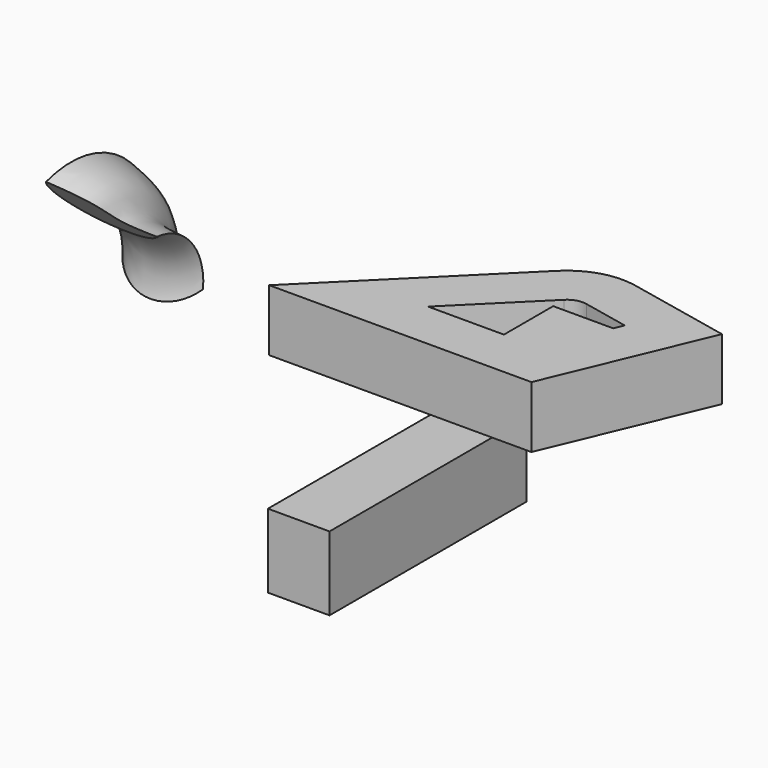
from build123d import *

# Parameters (mm, degrees)
F1_DEPTH      = 25
F2_W          = 18.6549739079
F2_H          = 25
F2_W_2        = 7.2887051135
F3_DEPTH      = 25
F5_ANGLE_BACK = 45
F5_ANGLE      = 90
F6_W          = 100
F6_H          = 30
F7_DEPTH      = 25


with BuildPart() as f1:
    # F0 (on Top) → F1 (new body)
    with BuildSketch(Plane.XY):
        with BuildLine():
            Line((84.5134988863, 43.4171267656), (42.1865175313, 52.3280707933))
            ThreePointArc((42.1865175313, 52.3280707933), (28.4781748194, 51.779293713), (16.676049634, 44.7843199962))
            Line((16.676049634, 44.7843199962), (-48.480621179, -20))
            Line((-48.480621179, -20), (57.9547037237, -20))
            Line((57.9547037237, -20), (84.5134988863, 43.4171267656))
        make_face()
        with BuildLine():
            Line((44.6475334466, 0), (0, 0))
            Line((0, 0), (30.777602538, 30.6017177774))
            ThreePointArc((30.777602538, 30.6017177774), (34.1496383053, 32.6002816965), (38.0663076515, 32.757075148))
            Line((38.0663076515, 32.757075148), (56.7212815594, 28.8297119624))
            Line((56.7212815594, 28.8297119624), (44.6475334466, 0))
        make_face(mode=Mode.SUBTRACT)
    extrude(amount=F1_DEPTH)

    # F2 (on Front) → F3 (join)
    with BuildSketch(Plane.XZ):
        with Locations((47.3937946055, 12.5)):
            Rectangle(F2_W, F2_H)
        with Locations((34.4219550948, 12.5)):
            Rectangle(F2_W_2, F2_H)
    extrude(amount=-F3_DEPTH)


with BuildPart() as f5:
    # F4 (on Front) → F5 (revolve)
    with BuildSketch(Plane.XZ, mode=Mode.PRIVATE) as f5_sk:
        with BuildLine():
            add(Edge.make_bspline(
                [(-128.8978096897, 37.9002092083), (-124.9873321019, 36.616120217), (-117.7613525942, 34.2380457977), (-111.7276169482, 27.87889312), (-109.5251548165, 17.8794732046), (-100.7738921716, 17.0393126701), (-96.0005752069, 16.5854462994)],
                knots=[0, 0, 0, 0, 0.2672312092, 0.4927808556, 0.7228802436, 1, 1, 1, 1], degree=3))
            ThreePointArc((-128.8978096897, 37.9002092083), (-123.0196616187, 10.9283510514), (-96.0005752069, 16.5854462994))
        make_face()
    revolve(f5_sk.sketch.rotate(Axis((4.7370412723, -20, 0), (-1, 0, 0)), -F5_ANGLE_BACK), axis=Axis((4.7370412723, -20, 0), (-1, 0, 0)), revolution_arc=F5_ANGLE)


with BuildPart() as f7:
    # F6 (on Right) → F7 (new body)
    with BuildSketch(Plane.YZ):
        with Locations((0, -50)):
            Rectangle(F6_W, F6_H)
    extrude(amount=-F7_DEPTH)


solid = Compound([f1.part, f5.part, f7.part])
